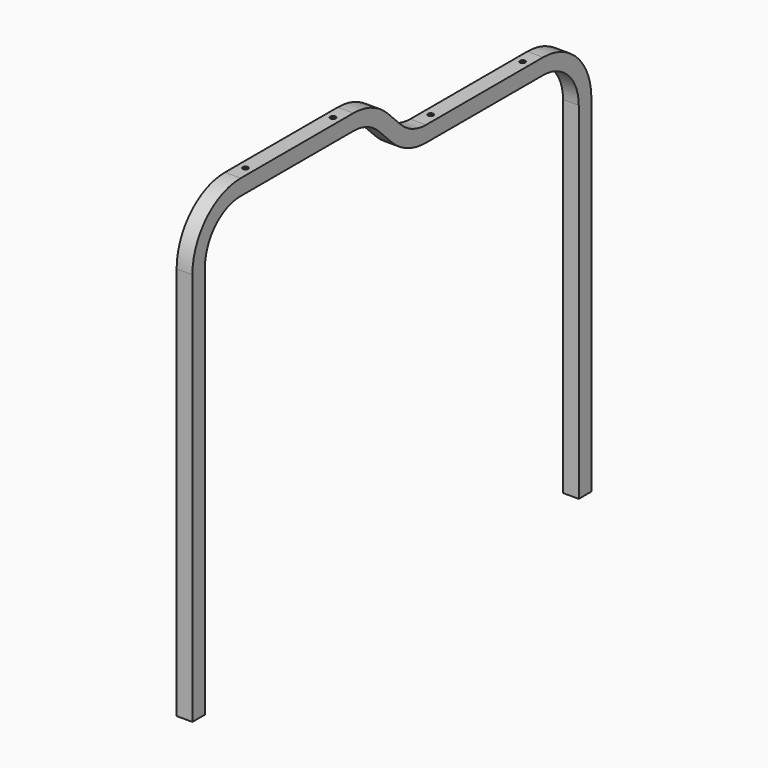
from build123d import *

# Parameters (mm, degrees)
F1_W     = 30
F1_H     = 30
F1_W_2   = 27
F1_H_2   = 27
F3_R     = 5
F5_DEPTH = 40
F4_R     = 5
F6_DEPTH = 40


with BuildPart() as f2:
    # F2: sweep along a path in F0
    with BuildLine(Plane.YZ) as f2_path:
        Line((0, 0), (0, 750))
        ThreePointArc((0, 750), (29.2893218813, 820.7106781187), (100, 850))
        Line((100, 850), (368.5786437627, 850))
        ThreePointArc((368.5786437627, 850), (406.8469869992, 842.3879532511), (439.2893218813, 820.7106781187))
        Line((439.2893218813, 820.7106781187), (470.7106781187, 789.2893218813))
        ThreePointArc((470.7106781187, 789.2893218813), (503.1530130008, 767.6120467489), (541.4213562373, 760))
        Line((541.4213562373, 760), (820, 760))
        ThreePointArc((820, 760), (890.7106781187, 730.7106781187), (920, 660))
        Line((920, 660), (920, 0))
    # F1 (on Top) → F2 (sweep)
    with BuildSketch(Plane.XY):
        Rectangle(F1_W, F1_H)
        Rectangle(F1_W_2, F1_H_2, mode=Mode.SUBTRACT)
    sweep(path=f2_path.line)

    # F3 (on face) → F5 (cut)
    with BuildSketch(Plane.XY.offset(865)):
        with Locations((0, 130)):
            Circle(F3_R)
        with Locations((0, 338.5786437627)):
            Circle(F3_R)
    extrude(amount=-F5_DEPTH, mode=Mode.SUBTRACT)

    # F4 (on face) → F6 (cut)
    with BuildSketch(Plane.XY.offset(775)):
        with Locations((0, 571.4213562373)):
            Circle(F4_R)
        with Locations((0, 790)):
            Circle(F4_R)
    extrude(amount=-F6_DEPTH, mode=Mode.SUBTRACT)


solid = f2.part
